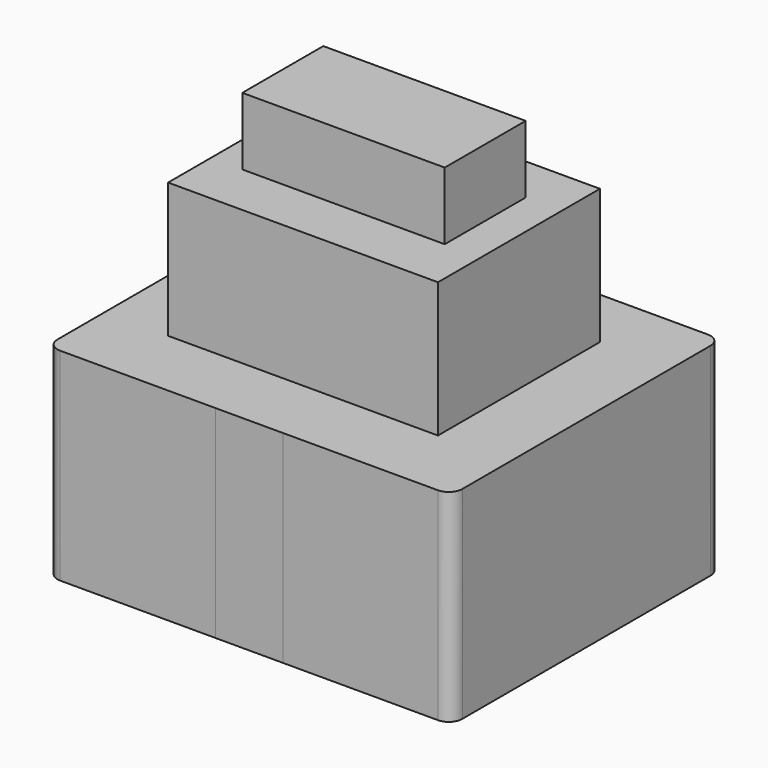
from build123d import *

# Parameters (mm, degrees)
F0_W     = 152.4
F0_H     = 76.2
F1_DEPTH = 63.5
F2_W     = 101.6
F2_H     = 50.8
F3_DEPTH = 38.1
F4_W     = 76.2
F4_H     = 25.4
F5_DEPTH = 19.05
F6_R     = 5.08
F7_W     = 25.4
F7_H     = 76.2
F8_DEPTH = 0.00127


with BuildPart() as f1:
    # F0 (on Front) → F1 (new body, symmetric)
    with BuildSketch(Plane.XZ):
        Rectangle(F0_W, F0_H)
    extrude(amount=F1_DEPTH, both=True)

    # F6
    f6_edges = [f1.edges().sort_by_distance(p)[0] for p in [
        (-76.2, -63.5, 0),
        (76.2, -63.5, 0),
        (76.2, 63.5, 0),
        (-76.2, 63.5, 0),
    ]]
    fillet(f6_edges, radius=F6_R)

    # F7 (on face) → F8 (join, symmetric)
    with BuildSketch(Plane.XZ.offset(63.5)):
        Rectangle(F7_W, F7_H)
    extrude(amount=F8_DEPTH, both=True)


with BuildPart() as f3:
    # F2 (on Front) → F3 (new body, symmetric)
    with BuildSketch(Plane.XZ):
        with Locations((0, 64.707212)):
            Rectangle(F2_W, F2_H)
    extrude(amount=F3_DEPTH, both=True)


with BuildPart() as f5:
    # F4 (on Front) → F5 (new body, symmetric)
    with BuildSketch(Plane.XZ):
        with Locations((0, 103.533939)):
            Rectangle(F4_W, F4_H)
    extrude(amount=F5_DEPTH, both=True)


solid = Compound([f1.part, f3.part, f5.part])
